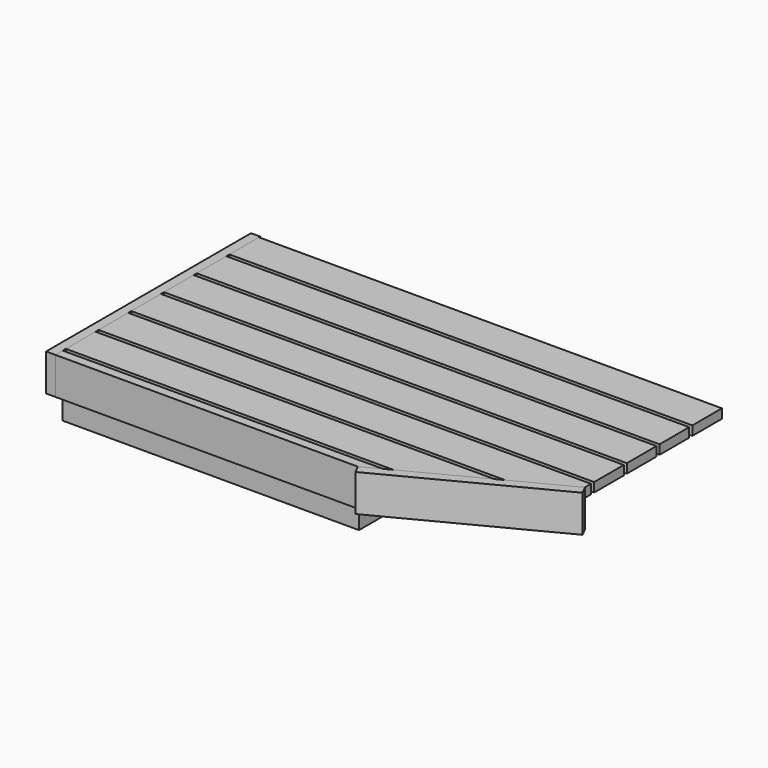
from build123d import *

# Parameters (mm, degrees)
F0_W     = 1219.2
F0_H     = 1016
F1_DEPTH = 203.2
F2_W     = 38.1
F2_H     = 152.4
F2_W_2   = 152.4
F2_H_2   = 38.1
F3_DEPTH = 1905
F4_W     = 38.1
F4_H     = 152.4
F5_DEPTH = 1054.1
F7_DEPTH = 254.001
F9_DEPTH = 152.4


with BuildPart() as f1:
    # F0 (on Top) → F1 (new body)
    with BuildSketch(Plane.XY):
        Rectangle(F0_W, F0_H)
    extrude(amount=F1_DEPTH)


with BuildPart() as f3:
    # F2 (on face) → F3 (new body)
    with BuildSketch(Plane(origin=(-609.6, 0, 0), x_dir=(0, -1, 0), z_dir=(-1, 0, 0))):
        with Locations((527.05, 177.8)):
            Rectangle(F2_W, F2_H)
        with Locations((415.925, 234.95)):
            Rectangle(F2_W_2, F2_H_2)
        with Locations((247.65, 234.95)):
            Rectangle(F2_W_2, F2_H_2)
        with Locations((79.375, 234.95)):
            Rectangle(F2_W_2, F2_H_2)
        with Locations((-88.9, 234.95)):
            Rectangle(F2_W_2, F2_H_2)
        with Locations((-257.175, 234.95)):
            Rectangle(F2_W_2, F2_H_2)
        with Locations((-425.45, 234.95)):
            Rectangle(F2_W_2, F2_H_2)
    extrude(amount=-F3_DEPTH)

    # F6 (on face) → F7 (cut, through all)
    with BuildSketch(Plane.XY.offset(254)):
        Polygon((1295.4, -203.2), (635, -546.1), (1295.4, -546.1), align=None)
    extrude(amount=-F7_DEPTH, mode=Mode.SUBTRACT)


with BuildPart() as f5:
    # F4 (on face) → F5 (new body)
    with BuildSketch(Plane.XZ.offset(546.1)):
        with Locations((-628.65, 177.8)):
            Rectangle(F4_W, F4_H)
    extrude(amount=-F5_DEPTH)


with BuildPart() as f9:
    # F8 (on face) → F9 (new body)
    with BuildSketch(Plane.XY.offset(254)):
        Polygon((1295.4, -203.2), (635, -546.1), (652.557062, -579.913601), (1312.957062, -237.013601), align=None)
    extrude(amount=-F9_DEPTH)


solid = Compound([f1.part, f3.part, f5.part, f9.part])
